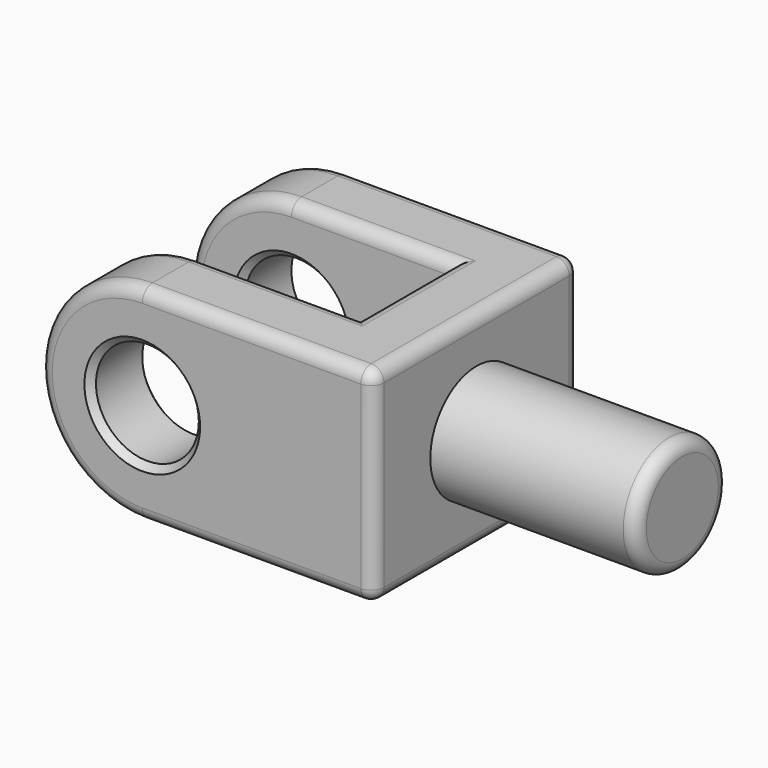
from build123d import *

# Parameters (mm, degrees)
F0_R     = 8
F1_DEPTH = 11
F2_W     = 11
F2_H     = 32
F3_DEPTH = 20
F5_R     = 9
F6_DEPTH = 32
F7_SIZE  = 1
F8_R     = 2


with BuildPart() as f1:
    # F0 (on Front) → F1 (new body)
    with BuildSketch(Plane.XZ):
        with BuildLine():
            Line((-36, 0), (-11, 0))
            Line((-11, 0), (-11, 32))
            Line((-11, 32), (-36, 32))
            ThreePointArc((-36, 32), (-52, 16), (-36, 0))
        make_face()
        with Locations((-36, 16)):
            Circle(F0_R, mode=Mode.SUBTRACT)
    extrude(amount=-F1_DEPTH)

    # F2 (on Front) → F3 (join)
    with BuildSketch(Plane.XZ):
        with Locations((-5.5, 16)):
            Rectangle(F2_W, F2_H)
    extrude(amount=-F3_DEPTH)

    # F4: F1 across face


with BuildPart() as f1_1:
    add(f1.part)
    add(f1.part.mirror(Plane(origin=(-5.5, 20, 16), x_dir=(1, 0, 0), z_dir=(0, 1, 0))))

    # F5 (on face) → F6 (join)
    with BuildSketch(Plane.YZ):
        with Locations((20, 16)):
            Circle(F5_R)
    extrude(amount=F6_DEPTH)

    # F7
    f7_edges = [f1_1.edges().sort_by_distance(p)[0] for p in [
        (-44, 0, 16),
        (-44, 11, 16),
        (-44, 29, 16),
        (-44, 40, 16),
    ]]
    chamfer(f7_edges, length=F7_SIZE)

    # F8
    f8_edges = [f1_1.edges().sort_by_distance(p)[0] for p in [
        (32, 11, 16),
        (0, 20, 32),
        (0, 40, 16),
        (0, 20, 0),
        (0, 0, 16),
        (-36, 5.5, 32),
        (-18, 0, 32),
        (-18, 40, 32),
        (-36, 34.5, 32),
        (-23.5, 29, 32),
        (-11, 20, 32),
        (-23.5, 11, 32),
    ]]
    fillet(f8_edges, radius=F8_R)


solid = f1_1.part
